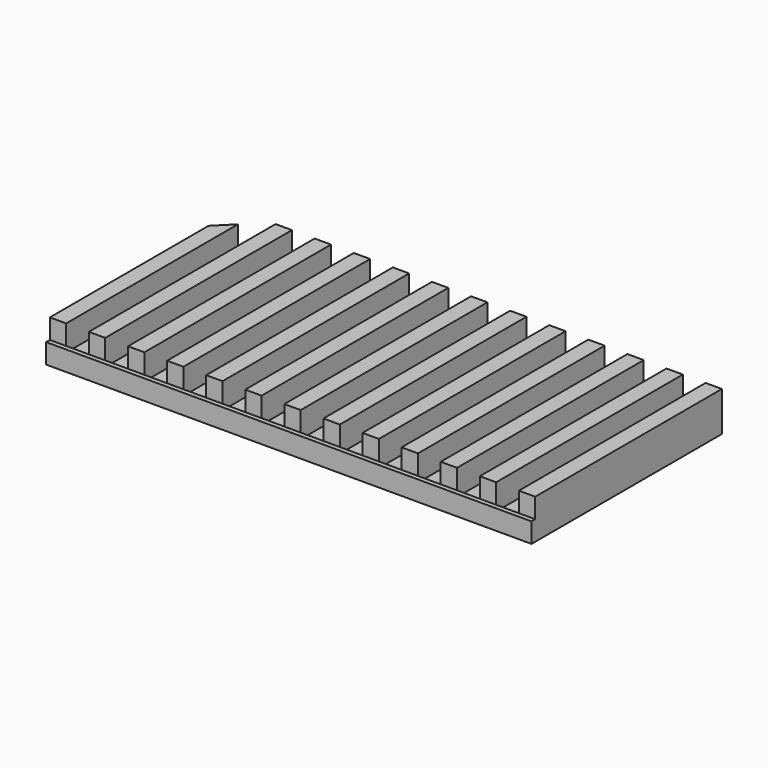
from build123d import *

# Parameters (mm, degrees)
F1_DEPTH = 100
F2_SIZE2 = 15
F2_SIZE  = 15
F3_W     = 208
F3_H     = 8.5
F4_DEPTH = 2


with BuildPart() as f1:
    # F0 (on Front) → F1 (new body)
    with BuildSketch(Plane.XZ):
        Polygon((7, 0), (0, 0), (0, -17), (208, -17), (208, 0), (201, 0), (201, -11), (191.25, -11), (191.25, 0), (184.25, 0), (184.25, -11), (174.5, -11), (174.5, 0), (167.5, 0), (167.5, -11), (157.75, -11), (157.75, 0), (150.75, 0), (150.75, -11), (141, -11), (141, 0), (134, 0), (134, -11), (124.25, -11), (124.25, 0), (117.25, 0), (117.25, -11), (107.5, -11), (107.5, 0), (100.5, 0), (100.5, -11), (90.75, -11), (90.75, 0), (83.75, 0), (83.75, -11), (74, -11), (74, 0), (67, 0), (67, -11), (57.25, -11), (57.25, 0), (50.25, 0), (50.25, -11), (40.5, -11), (40.5, 0), (33.5, 0), (33.5, -11), (23.75, -11), (23.75, 0), (16.75, 0), (16.75, -11), (7, -11), align=None)
    extrude(amount=F1_DEPTH)

    # F2
    f2_edges = [f1.edges().sort_by_distance(p)[0] for p in [
        (0, 0, -8.5),
    ]]
    chamfer(f2_edges, length=F2_SIZE, length2=F2_SIZE2)

    # F3 (on face) → F4 (join)
    with BuildSketch(Plane.XZ.offset(100)):
        with Locations((104, -12.75)):
            Rectangle(F3_W, F3_H)
    extrude(amount=F4_DEPTH)


solid = f1.part
